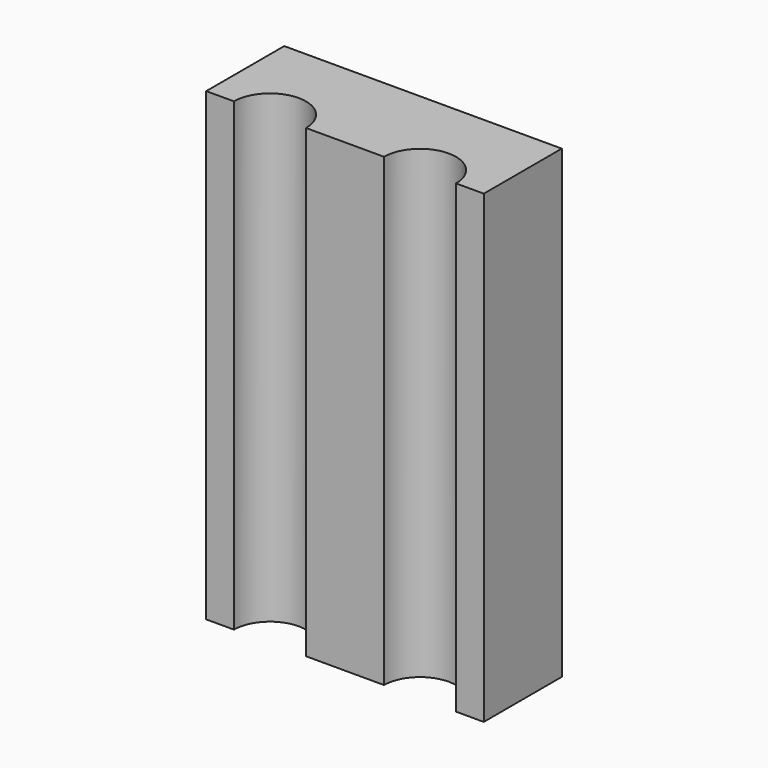
from build123d import *

# Parameters (mm, degrees)
F0_W     = 37
F0_H     = 15
F1_DEPTH = 62
F3_DEPTH = 62.001
F4_DEPTH = 2


with BuildPart() as f1:
    # F0 (on Top) → F1 (new body)
    with BuildSketch(Plane.XY):
        with Locations((18.5, 7.5)):
            Rectangle(F0_W, F0_H)
    extrude(amount=F1_DEPTH)

    # F2 (on face) → F3 (cut, through all)
    with BuildSketch(Plane(origin=(0, 0, 0), x_dir=(1, 0, 0), z_dir=(0, 0, -1))):
        with BuildLine():
            Line((13.3, 0), (3.7, 0))
            ThreePointArc((3.7, 0), (8.5, -4.8), (13.3, 0))
        make_face()
        with BuildLine():
            Line((33.3, 0), (23.7, 0))
            ThreePointArc((23.7, 0), (28.5, -4.8), (33.3, 0))
        make_face()
    extrude(amount=-F3_DEPTH, mode=Mode.SUBTRACT)

    # F4 (cut): a face of the model
    f4_faces = [f1.faces().sort_by_distance(p)[0] for p in [
        (18.5, 15, 31),
    ]]
    extrude(f4_faces, amount=-F4_DEPTH, mode=Mode.SUBTRACT)


solid = f1.part
